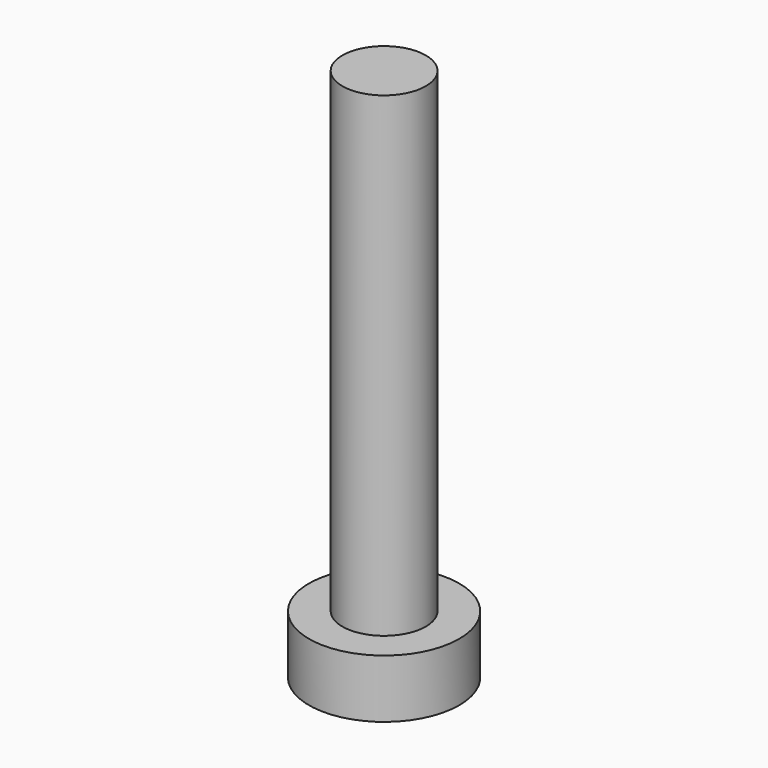
from build123d import *

# Parameters (mm, degrees)
SKETCH008_R     = 0.9
PAD007_DEPTH    = 0.7
SKETCH009_R     = 0.5
PAD008_DEPTH    = 5.7
POCKET001_DEPTH = 0.3


with BuildPart() as part:
    # Sketch008 → Pad007 (new body)
    with BuildSketch(Plane.XY):
        Circle(SKETCH008_R)
    extrude(amount=PAD007_DEPTH)

    # Sketch009 (on Face3 of Pad007) → Pad008 (join)
    with BuildSketch(Plane.XY.offset(0.7)):
        Circle(SKETCH009_R)
    extrude(amount=PAD008_DEPTH)

    # Sketch010 (on Face2 of Pad008) → Pocket001 (cut)
    with BuildSketch(Plane(origin=(0, 0, 0), x_dir=(1, 0, 0), z_dir=(0, 0, -1))):
        Polygon((-0.15, 0.15), (-0.15, 0.65), (0.15, 0.65), (0.15, 0.15), (0.65, 0.15), (0.65, -0.15), (0.15, -0.15), (0.15, -0.65), (-0.15, -0.65), (-0.15, -0.15), (-0.65, -0.15), (-0.65, 0.15), align=None)
    extrude(amount=-POCKET001_DEPTH, mode=Mode.SUBTRACT)


with BuildPart() as part_1:
    # Body003 placement: moved
    add(part.part.moved(Location((16.8, 0, 0))))


solid = part_1.part
